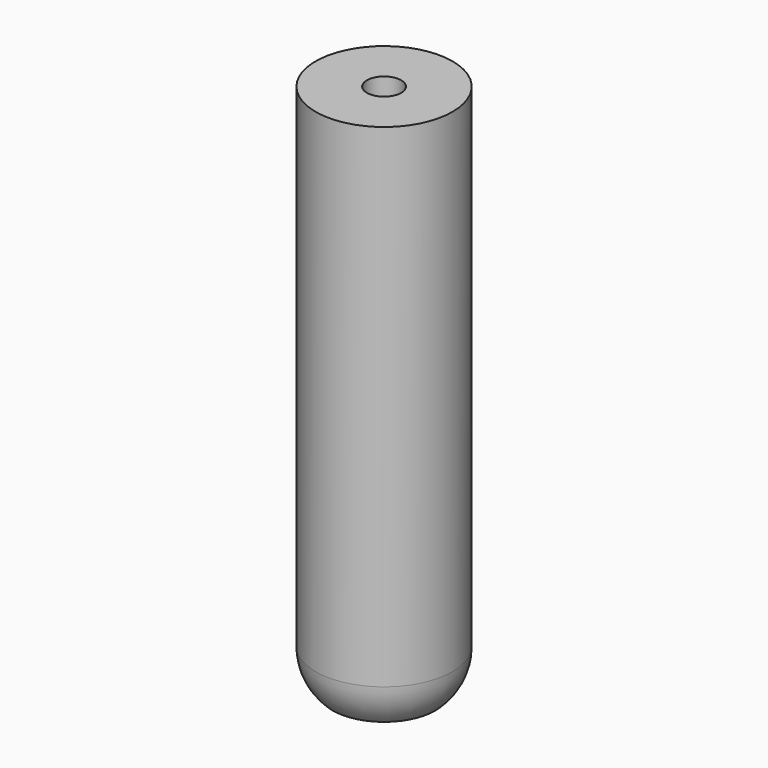
from build123d import *

# Parameters (mm, degrees)
F0_R           = 12.7
F1_DEPTH       = 101.6
F3_R           = 10.16
F4_D           = 6.35
F4_START       = 2.7819668
F4_CSINK_D     = 19.05
F4_CSINK_ANGLE = 44.9


with BuildPart() as f1:
    # F0 (on Top) → F1 (new body)
    with BuildSketch(Plane.XY):
        Circle(F0_R)
    extrude(amount=-F1_DEPTH)

    # F3
    f3_edges = [f1.edges().sort_by_distance(p)[0] for p in [
        (-12.7, 0, -101.6),
    ]]
    fillet(f3_edges, radius=F3_R)

    # F4 (through all)
    # its depths count from where the whole tool has entered the part; down to there all is cleared
    with Locations(Plane(origin=(0, 0, -101.6), x_dir=(1, 0, 0), z_dir=(0, 0, -1)).offset(-F4_START)):
        with Locations((0, 0)):
            CounterSinkHole(F4_D / 2, F4_CSINK_D / 2, counter_sink_angle=F4_CSINK_ANGLE)


solid = f1.part
